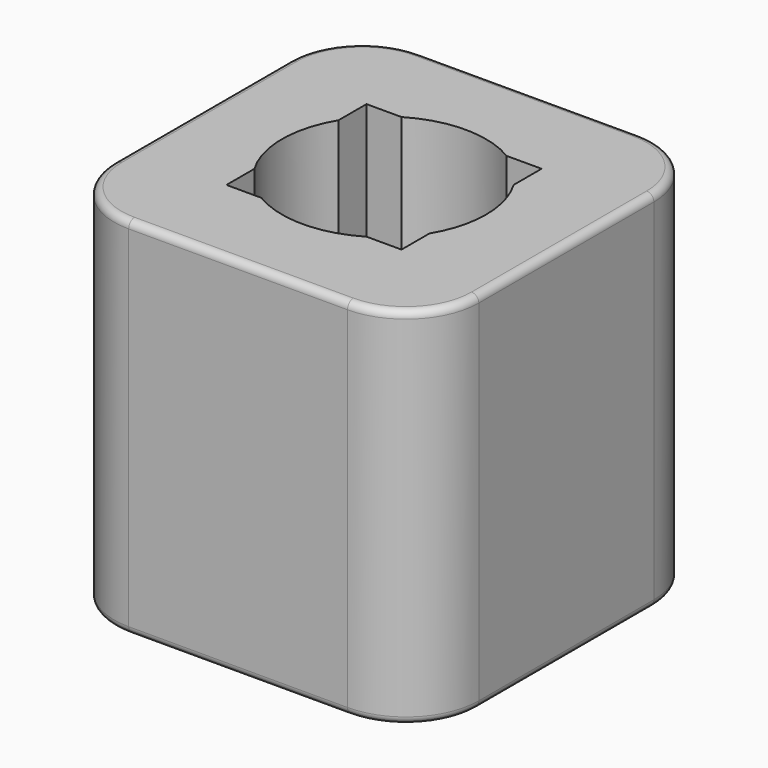
from build123d import *

# Parameters (mm, degrees)
F1_DEPTH = 12.5
F2_R     = 0.5
F4_DEPTH = 25.001


with BuildPart() as f1:
    # F0 (on Top) → F1 (new body, symmetric)
    with BuildSketch(Plane.XY):
        with BuildLine():
            ThreePointArc((12.5, 7.5), (11.0355339059, 11.0355339059), (7.5, 12.5))
            Line((7.5, 12.5), (-7.5, 12.5))
            ThreePointArc((-7.5, 12.5), (-11.0355339059, 11.0355339059), (-12.5, 7.5))
            Line((-12.5, 7.5), (-12.5, -7.5))
            ThreePointArc((-12.5, -7.5), (-11.0355339059, -11.0355339059), (-7.5, -12.5))
            Line((-7.5, -12.5), (7.5, -12.5))
            ThreePointArc((7.5, -12.5), (11.0355339059, -11.0355339059), (12.5, -7.5))
            Line((12.5, -7.5), (12.5, 7.5))
        make_face()
    extrude(amount=F1_DEPTH, both=True)

    # F2
    f2_edges = [f1.edges().sort_by_distance(p)[0] for p in [
        (0, -12.5, -12.5),
        (-12.5, 0, 12.5),
    ]]
    fillet(f2_edges, radius=F2_R)

    # F3 (on face) → F4 (cut, through all)
    with BuildSketch(Plane.XY.offset(12.5)):
        with BuildLine():
            Line((3.6055512755, -6), (6, -6))
            Line((6, -6), (6, -3.6055512755))
            ThreePointArc((6, -3.6055512755), (4.9497474683, -4.9497474683), (3.6055512755, -6))
        make_face()
        with BuildLine():
            ThreePointArc((-3.6055512755, -6), (0, -7), (3.6055512755, -6))
            Line((3.6055512755, -6), (-3.6055512755, -6))
        make_face()
        with BuildLine():
            Line((-3.6055512755, -6), (3.6055512755, -6))
            ThreePointArc((3.6055512755, -6), (4.9497474683, -4.9497474683), (6, -3.6055512755))
            Line((6, -3.6055512755), (6, 3.6055512755))
            ThreePointArc((6, 3.6055512755), (4.9497474683, 4.9497474683), (3.6055512755, 6))
            Line((3.6055512755, 6), (-3.6055512755, 6))
            ThreePointArc((-3.6055512755, 6), (-4.9497474683, 4.9497474683), (-6, 3.6055512755))
            Line((-6, 3.6055512755), (-6, -3.6055512755))
            ThreePointArc((-6, -3.6055512755), (-4.9497474683, -4.9497474683), (-3.6055512755, -6))
        make_face()
        with BuildLine():
            Line((6, 3.6055512755), (6, -3.6055512755))
            ThreePointArc((6, -3.6055512755), (6.7453687816, -1.8708286934), (7, 0))
            ThreePointArc((7, 0), (6.7453687816, 1.8708286934), (6, 3.6055512755))
        make_face()
        with BuildLine():
            Line((-6, -6), (-3.6055512755, -6))
            ThreePointArc((-3.6055512755, -6), (-4.9497474683, -4.9497474683), (-6, -3.6055512755))
            Line((-6, -3.6055512755), (-6, -6))
        make_face()
        with BuildLine():
            ThreePointArc((3.6055512755, 6), (4.9497474683, 4.9497474683), (6, 3.6055512755))
            Line((6, 3.6055512755), (6, 6))
            Line((6, 6), (3.6055512755, 6))
        make_face()
        with BuildLine():
            ThreePointArc((-6, 3.6055512755), (-7, 0), (-6, -3.6055512755))
            Line((-6, -3.6055512755), (-6, 3.6055512755))
        make_face()
        with BuildLine():
            Line((-3.6055512755, 6), (3.6055512755, 6))
            ThreePointArc((3.6055512755, 6), (0, 7), (-3.6055512755, 6))
        make_face()
        with BuildLine():
            Line((-6, 6), (-6, 3.6055512755))
            ThreePointArc((-6, 3.6055512755), (-4.9497474683, 4.9497474683), (-3.6055512755, 6))
            Line((-3.6055512755, 6), (-6, 6))
        make_face()
    extrude(amount=-F4_DEPTH, mode=Mode.SUBTRACT)


solid = f1.part
